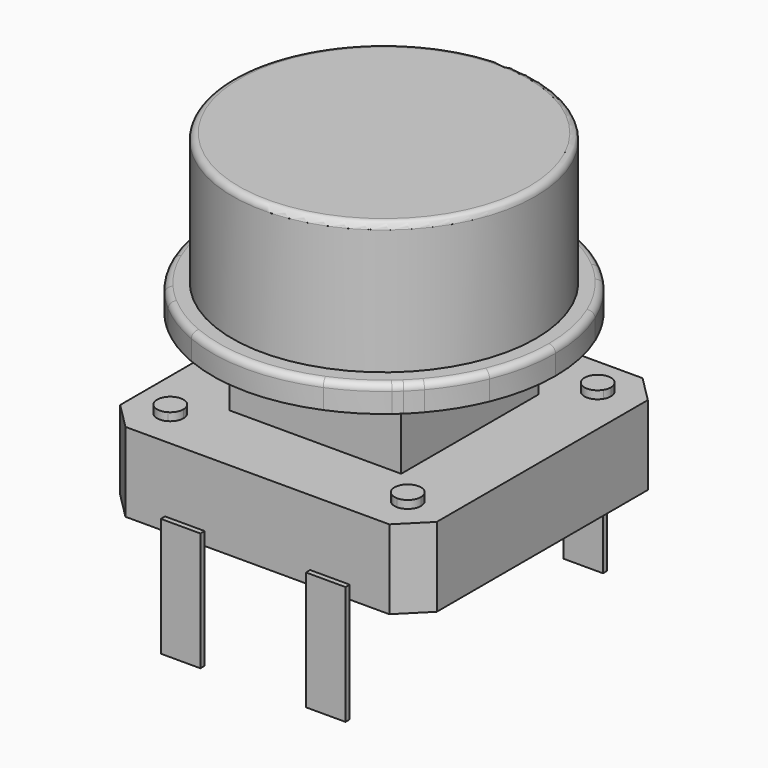
from build123d import *

# Parameters (mm, degrees)
F0_R          = 5.75
F0_W          = 6.5
F0_H          = 6.5
F1_DEPTH      = 3
F2_DEPTH      = 6
F3_START      = 6
F3_DEPTH      = 6
F4_START      = 6
F4_DEPTH      = 1
F5_W          = 1.5
F5_H          = 0.2
F6_DEPTH      = 4
F6_DEPTH_BACK = 0.5
F7_SIZE       = 1
F8_DEPTH      = 3.3
F9_R          = 0.25


with BuildPart() as f1:
    # F0 (on Top) → F1 (new body)
    with BuildSketch(Plane.XY):
        with BuildLine():
            ThreePointArc((4.2397411979, 4.9269254688), (3.4123159424, 5.5322780036), (2.5, 6))
            Line((2.5, 6), (-2.5, 6))
            ThreePointArc((-2.5, 6), (-3.4123159424, 5.5322780036), (-4.2397411979, 4.9269254688))
            ThreePointArc((-4.2397411979, 4.9269254688), (-4.0640358954, 4.7448168692), (-4, 4.5))
            ThreePointArc((-4, 4.5), (-4.3648384936, 4.0186151569), (-4.9269254688, 4.2397411979))
            ThreePointArc((-4.9269254688, 4.2397411979), (-5.5322780036, 3.4123159424), (-6, 2.5))
            Line((-6, 2.5), (-6, -2.5))
            ThreePointArc((-6, -2.5), (-5.5322780036, -3.4123159424), (-4.9269254688, -4.2397411979))
            ThreePointArc((-4.9269254688, -4.2397411979), (-4.3648384936, -4.0186151569), (-4, -4.5))
            ThreePointArc((-4, -4.5), (-4.0640358954, -4.7448168692), (-4.2397411979, -4.9269254688))
            ThreePointArc((-4.2397411979, -4.9269254688), (-3.4123159424, -5.5322780036), (-2.5, -6))
            Line((-2.5, -6), (2.5, -6))
            ThreePointArc((2.5, -6), (3.4123159424, -5.5322780036), (4.2397411979, -4.9269254688))
            ThreePointArc((4.2397411979, -4.9269254688), (4.1464466094, -4.1464466094), (4.9269254688, -4.2397411979))
            ThreePointArc((4.9269254688, -4.2397411979), (5.5322780036, -3.4123159424), (6, -2.5))
            Line((6, -2.5), (6, 2.5))
            ThreePointArc((6, 2.5), (5.5322780036, 3.4123159424), (4.9269254688, 4.2397411979))
            ThreePointArc((4.9269254688, 4.2397411979), (4.1464466094, 4.1464466094), (4.2397411979, 4.9269254688))
        make_face()
        Circle(F0_R, mode=Mode.SUBTRACT)
        Circle(F0_R)
        Rectangle(F0_W, F0_H, mode=Mode.SUBTRACT)
        Rectangle(F0_W, F0_H)
        with BuildLine():
            ThreePointArc((-4.2397411979, 4.9269254688), (-3.4123159424, 5.5322780036), (-2.5, 6))
            Line((-2.5, 6), (-6, 6))
            Line((-6, 6), (-6, 2.5))
            ThreePointArc((-6, 2.5), (-5.5322780036, 3.4123159424), (-4.9269254688, 4.2397411979))
            ThreePointArc((-4.9269254688, 4.2397411979), (-4.8535533906, 4.8535533906), (-4.2397411979, 4.9269254688))
        make_face()
        with BuildLine():
            Line((6, 2.5), (6, 6))
            Line((6, 6), (2.5, 6))
            ThreePointArc((2.5, 6), (3.4123159424, 5.5322780036), (4.2397411979, 4.9269254688))
            ThreePointArc((4.2397411979, 4.9269254688), (4.7448168692, 4.9359641046), (5, 4.5))
            ThreePointArc((5, 4.5), (4.9813848431, 4.3648384936), (4.9269254688, 4.2397411979))
            ThreePointArc((4.9269254688, 4.2397411979), (5.5322780036, 3.4123159424), (6, 2.5))
        make_face()
        with BuildLine():
            ThreePointArc((-4.9269254688, -4.2397411979), (-5.5322780036, -3.4123159424), (-6, -2.5))
            Line((-6, -2.5), (-6, -6))
            Line((-6, -6), (-2.5, -6))
            ThreePointArc((-2.5, -6), (-3.4123159424, -5.5322780036), (-4.2397411979, -4.9269254688))
            ThreePointArc((-4.2397411979, -4.9269254688), (-4.8535533906, -4.8535533906), (-4.9269254688, -4.2397411979))
        make_face()
        with BuildLine():
            Line((6, -6), (6, -2.5))
            ThreePointArc((6, -2.5), (5.5322780036, -3.4123159424), (4.9269254688, -4.2397411979))
            ThreePointArc((4.9269254688, -4.2397411979), (4.9813848431, -4.3648384936), (5, -4.5))
            ThreePointArc((5, -4.5), (4.8535533906, -4.8535533906), (4.5, -5))
            Line((4.5, -5), (4.5, -6))
            Line((4.5, -6), (6, -6))
        make_face()
        with BuildLine():
            Line((6, -6), (6, -2.5))
            ThreePointArc((6, -2.5), (5.5322780036, -3.4123159424), (4.9269254688, -4.2397411979))
            ThreePointArc((4.9269254688, -4.2397411979), (4.9813848431, -4.3648384936), (5, -4.5))
            ThreePointArc((5, -4.5), (4.8535533906, -4.8535533906), (4.5, -5))
            Line((4.5, -5), (4.5, -6))
            Line((4.5, -6), (6, -6))
        make_face()
        with BuildLine():
            Line((2.5, -6), (4.5, -6))
            Line((4.5, -6), (4.5, -5))
            ThreePointArc((4.5, -5), (4.3648384936, -4.9813848431), (4.2397411979, -4.9269254688))
            ThreePointArc((4.2397411979, -4.9269254688), (3.4123159424, -5.5322780036), (2.5, -6))
        make_face()
        with BuildLine():
            ThreePointArc((4.9269254688, 4.2397411979), (4.5961940777, 4.5961940777), (4.2397411979, 4.9269254688))
            ThreePointArc((4.2397411979, 4.9269254688), (4.1464466094, 4.1464466094), (4.9269254688, 4.2397411979))
        make_face()
        with BuildLine():
            ThreePointArc((-4, 4.5), (-4.0640358954, 4.7448168692), (-4.2397411979, 4.9269254688))
            ThreePointArc((-4.2397411979, 4.9269254688), (-4.5961940777, 4.5961940777), (-4.9269254688, 4.2397411979))
            ThreePointArc((-4.9269254688, 4.2397411979), (-4.3648384936, 4.0186151569), (-4, 4.5))
        make_face()
        with BuildLine():
            ThreePointArc((-4, -4.5), (-4.3648384936, -4.0186151569), (-4.9269254688, -4.2397411979))
            ThreePointArc((-4.9269254688, -4.2397411979), (-4.5961940777, -4.5961940777), (-4.2397411979, -4.9269254688))
            ThreePointArc((-4.2397411979, -4.9269254688), (-4.0640358954, -4.7448168692), (-4, -4.5))
        make_face()
        with BuildLine():
            ThreePointArc((4.5, -4.6904157598), (4.7188460283, -4.4701780905), (4.9269254688, -4.2397411979))
            ThreePointArc((4.9269254688, -4.2397411979), (4.1464466094, -4.1464466094), (4.2397411979, -4.9269254688))
            ThreePointArc((4.2397411979, -4.9269254688), (4.3714703776, -4.8104310345), (4.5, -4.6904157598))
        make_face()
        with BuildLine():
            ThreePointArc((5, 4.5), (4.7448168692, 4.9359641046), (4.2397411979, 4.9269254688))
            ThreePointArc((4.2397411979, 4.9269254688), (4.5961940777, 4.5961940777), (4.9269254688, 4.2397411979))
            ThreePointArc((4.9269254688, 4.2397411979), (4.9813848431, 4.3648384936), (5, 4.5))
        make_face()
        with BuildLine():
            ThreePointArc((-4.9269254688, 4.2397411979), (-4.5961940777, 4.5961940777), (-4.2397411979, 4.9269254688))
            ThreePointArc((-4.2397411979, 4.9269254688), (-4.8535533906, 4.8535533906), (-4.9269254688, 4.2397411979))
        make_face()
        with BuildLine():
            ThreePointArc((-4.2397411979, -4.9269254688), (-4.5961940777, -4.5961940777), (-4.9269254688, -4.2397411979))
            ThreePointArc((-4.9269254688, -4.2397411979), (-4.8535533906, -4.8535533906), (-4.2397411979, -4.9269254688))
        make_face()
        with BuildLine():
            ThreePointArc((5, -4.5), (4.9813848431, -4.3648384936), (4.9269254688, -4.2397411979))
            ThreePointArc((4.9269254688, -4.2397411979), (4.7188460283, -4.4701780905), (4.5, -4.6904157598))
            Line((4.5, -4.6904157598), (4.5, -5))
            ThreePointArc((4.5, -5), (4.8535533906, -4.8535533906), (5, -4.5))
        make_face()
        with BuildLine():
            Line((4.5, -5), (4.5, -4.6904157598))
            ThreePointArc((4.5, -4.6904157598), (4.3714703776, -4.8104310345), (4.2397411979, -4.9269254688))
            ThreePointArc((4.2397411979, -4.9269254688), (4.3648384936, -4.9813848431), (4.5, -5))
        make_face()
    extrude(amount=F1_DEPTH)

    # F0 (on Top) → F2 (join)
    with BuildSketch(Plane.XY):
        Rectangle(F0_W, F0_H)
    extrude(amount=F2_DEPTH)

    # F0 (on Top) → F3 (join)
    with BuildSketch(Plane.XY.offset(F3_START)):
        Circle(F0_R)
        Rectangle(F0_W, F0_H, mode=Mode.SUBTRACT)
        Rectangle(F0_W, F0_H)
    extrude(amount=F3_DEPTH)

    # F0 (on Top) → F4 (join)
    with BuildSketch(Plane.XY.offset(F4_START)):
        with BuildLine():
            ThreePointArc((4.2397411979, 4.9269254688), (3.4123159424, 5.5322780036), (2.5, 6))
            Line((2.5, 6), (-2.5, 6))
            ThreePointArc((-2.5, 6), (-3.4123159424, 5.5322780036), (-4.2397411979, 4.9269254688))
            ThreePointArc((-4.2397411979, 4.9269254688), (-4.0640358954, 4.7448168692), (-4, 4.5))
            ThreePointArc((-4, 4.5), (-4.3648384936, 4.0186151569), (-4.9269254688, 4.2397411979))
            ThreePointArc((-4.9269254688, 4.2397411979), (-5.5322780036, 3.4123159424), (-6, 2.5))
            Line((-6, 2.5), (-6, -2.5))
            ThreePointArc((-6, -2.5), (-5.5322780036, -3.4123159424), (-4.9269254688, -4.2397411979))
            ThreePointArc((-4.9269254688, -4.2397411979), (-4.3648384936, -4.0186151569), (-4, -4.5))
            ThreePointArc((-4, -4.5), (-4.0640358954, -4.7448168692), (-4.2397411979, -4.9269254688))
            ThreePointArc((-4.2397411979, -4.9269254688), (-3.4123159424, -5.5322780036), (-2.5, -6))
            Line((-2.5, -6), (2.5, -6))
            ThreePointArc((2.5, -6), (3.4123159424, -5.5322780036), (4.2397411979, -4.9269254688))
            ThreePointArc((4.2397411979, -4.9269254688), (4.1464466094, -4.1464466094), (4.9269254688, -4.2397411979))
            ThreePointArc((4.9269254688, -4.2397411979), (5.5322780036, -3.4123159424), (6, -2.5))
            Line((6, -2.5), (6, 2.5))
            ThreePointArc((6, 2.5), (5.5322780036, 3.4123159424), (4.9269254688, 4.2397411979))
            ThreePointArc((4.9269254688, 4.2397411979), (4.1464466094, 4.1464466094), (4.2397411979, 4.9269254688))
        make_face()
        Circle(F0_R, mode=Mode.SUBTRACT)
        with BuildLine():
            Line((-2.5, 6), (2.5, 6))
            ThreePointArc((2.5, 6), (0, 6.5), (-2.5, 6))
        make_face()
        with BuildLine():
            ThreePointArc((6.5, 0), (6.373774392, 1.2747548784), (6, 2.5))
            Line((6, 2.5), (6, -2.5))
            ThreePointArc((6, -2.5), (6.373774392, -1.2747548784), (6.5, 0))
        make_face()
        with BuildLine():
            ThreePointArc((-2.5, -6), (0, -6.5), (2.5, -6))
            Line((2.5, -6), (-2.5, -6))
        make_face()
        with BuildLine():
            Line((-6, -2.5), (-6, 2.5))
            ThreePointArc((-6, 2.5), (-6.5, 0), (-6, -2.5))
        make_face()
        with BuildLine():
            ThreePointArc((4.5, -4.6904157598), (4.7188460283, -4.4701780905), (4.9269254688, -4.2397411979))
            ThreePointArc((4.9269254688, -4.2397411979), (4.1464466094, -4.1464466094), (4.2397411979, -4.9269254688))
            ThreePointArc((4.2397411979, -4.9269254688), (4.3714703776, -4.8104310345), (4.5, -4.6904157598))
        make_face()
        with BuildLine():
            ThreePointArc((-4, -4.5), (-4.3648384936, -4.0186151569), (-4.9269254688, -4.2397411979))
            ThreePointArc((-4.9269254688, -4.2397411979), (-4.5961940777, -4.5961940777), (-4.2397411979, -4.9269254688))
            ThreePointArc((-4.2397411979, -4.9269254688), (-4.0640358954, -4.7448168692), (-4, -4.5))
        make_face()
        with BuildLine():
            ThreePointArc((-4, 4.5), (-4.0640358954, 4.7448168692), (-4.2397411979, 4.9269254688))
            ThreePointArc((-4.2397411979, 4.9269254688), (-4.5961940777, 4.5961940777), (-4.9269254688, 4.2397411979))
            ThreePointArc((-4.9269254688, 4.2397411979), (-4.3648384936, 4.0186151569), (-4, 4.5))
        make_face()
        with BuildLine():
            ThreePointArc((4.9269254688, 4.2397411979), (4.5961940777, 4.5961940777), (4.2397411979, 4.9269254688))
            ThreePointArc((4.2397411979, 4.9269254688), (4.1464466094, 4.1464466094), (4.9269254688, 4.2397411979))
        make_face()
    extrude(amount=F4_DEPTH)

    # F5 (on Top) → F6 (join, two sides)
    with BuildSketch(Plane.XY) as f6_sk:
        with Locations((-2.75, -6.1)):
            Rectangle(F5_W, F5_H)
        with Locations((2.75, -6.1)):
            Rectangle(F5_W, F5_H)
        with Locations((2.75, 6.1)):
            Rectangle(F5_W, F5_H)
        with Locations((-2.75, 6.1)):
            Rectangle(F5_W, F5_H)
    extrude(amount=-F6_DEPTH)
    extrude(f6_sk.sketch, amount=F6_DEPTH_BACK)

    # F7
    f7_edges = [f1.edges().sort_by_distance(p)[0] for p in [
        (-6, -6, 1.5),
        (6, -6, 1.5),
        (6, 6, 1.5),
        (-6, 6, 1.5),
    ]]
    chamfer(f7_edges, length=F7_SIZE)

    # F0 (on Top) → F8 (join)
    with BuildSketch(Plane.XY):
        with BuildLine():
            ThreePointArc((4.5, -4.6904157598), (4.7188460283, -4.4701780905), (4.9269254688, -4.2397411979))
            ThreePointArc((4.9269254688, -4.2397411979), (4.1464466094, -4.1464466094), (4.2397411979, -4.9269254688))
            ThreePointArc((4.2397411979, -4.9269254688), (4.3714703776, -4.8104310345), (4.5, -4.6904157598))
        make_face()
        with BuildLine():
            ThreePointArc((5, -4.5), (4.9813848431, -4.3648384936), (4.9269254688, -4.2397411979))
            ThreePointArc((4.9269254688, -4.2397411979), (4.7188460283, -4.4701780905), (4.5, -4.6904157598))
            Line((4.5, -4.6904157598), (4.5, -5))
            ThreePointArc((4.5, -5), (4.8535533906, -4.8535533906), (5, -4.5))
        make_face()
        with BuildLine():
            Line((4.5, -5), (4.5, -4.6904157598))
            ThreePointArc((4.5, -4.6904157598), (4.3714703776, -4.8104310345), (4.2397411979, -4.9269254688))
            ThreePointArc((4.2397411979, -4.9269254688), (4.3648384936, -4.9813848431), (4.5, -5))
        make_face()
        with BuildLine():
            ThreePointArc((4.9269254688, 4.2397411979), (4.5961940777, 4.5961940777), (4.2397411979, 4.9269254688))
            ThreePointArc((4.2397411979, 4.9269254688), (4.1464466094, 4.1464466094), (4.9269254688, 4.2397411979))
        make_face()
        with BuildLine():
            ThreePointArc((5, 4.5), (4.7448168692, 4.9359641046), (4.2397411979, 4.9269254688))
            ThreePointArc((4.2397411979, 4.9269254688), (4.5961940777, 4.5961940777), (4.9269254688, 4.2397411979))
            ThreePointArc((4.9269254688, 4.2397411979), (4.9813848431, 4.3648384936), (5, 4.5))
        make_face()
        with BuildLine():
            ThreePointArc((-4.9269254688, 4.2397411979), (-4.5961940777, 4.5961940777), (-4.2397411979, 4.9269254688))
            ThreePointArc((-4.2397411979, 4.9269254688), (-4.8535533906, 4.8535533906), (-4.9269254688, 4.2397411979))
        make_face()
        with BuildLine():
            ThreePointArc((-4, 4.5), (-4.0640358954, 4.7448168692), (-4.2397411979, 4.9269254688))
            ThreePointArc((-4.2397411979, 4.9269254688), (-4.5961940777, 4.5961940777), (-4.9269254688, 4.2397411979))
            ThreePointArc((-4.9269254688, 4.2397411979), (-4.3648384936, 4.0186151569), (-4, 4.5))
        make_face()
        with BuildLine():
            ThreePointArc((-4, -4.5), (-4.3648384936, -4.0186151569), (-4.9269254688, -4.2397411979))
            ThreePointArc((-4.9269254688, -4.2397411979), (-4.5961940777, -4.5961940777), (-4.2397411979, -4.9269254688))
            ThreePointArc((-4.2397411979, -4.9269254688), (-4.0640358954, -4.7448168692), (-4, -4.5))
        make_face()
        with BuildLine():
            ThreePointArc((-4.2397411979, -4.9269254688), (-4.5961940777, -4.5961940777), (-4.9269254688, -4.2397411979))
            ThreePointArc((-4.9269254688, -4.2397411979), (-4.8535533906, -4.8535533906), (-4.2397411979, -4.9269254688))
        make_face()
    extrude(amount=F8_DEPTH)

    # F9
    f9_edges = [f1.edges().sort_by_distance(p)[0] for p in [
        (-5.75, 0, 12),
        (-4.926925, -4.239741, 7),
    ]]
    fillet(f9_edges, radius=F9_R)


solid = f1.part
